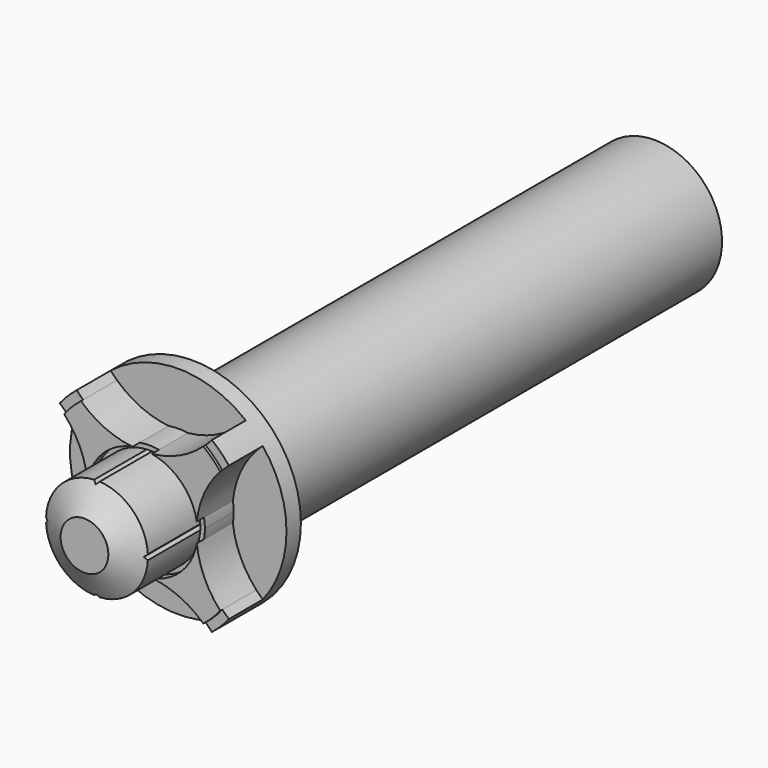
from build123d import *

# Parameters (mm, degrees)
F0_R      = 12
F1_DEPTH  = 7
F2_R      = 7.5
F3_DEPTH  = 64
F5_D      = 7
F5_DEPTH  = 16
F5_TIP    = 2.1030121666
F6_R      = 12
F6_R_2    = 11
F7_DEPTH  = 0.3
F8_R      = 5.65
F9_DEPTH  = 8
F10_SIZE2 = 1.7320508076
F10_SIZE  = 3
F11_R     = 6.15
F11_R_2   = 5.65
F12_DEPTH = 1
F14_DEPTH = 5
F16_DEPTH = 26


with BuildPart() as f1:
    # F0 (on Front) → F1 (new body)
    with BuildSketch(Plane.XZ):
        Circle(F0_R)
    extrude(amount=F1_DEPTH)

    # F2 (on face) → F3 (join)
    with BuildSketch(Plane(origin=(0, 0, 0), x_dir=(-1, 0, 0), z_dir=(0, 1, 0))):
        Circle(F2_R)
    extrude(amount=F3_DEPTH)

    # F5
    with Locations(Plane(origin=(0, 64, 0), x_dir=(-1, 0, 0), z_dir=(0, 1, 0))):
        with Locations((0, 0)):
            Hole(F5_D / 2, depth=F5_DEPTH)
            with Locations((0, 0, -(F5_DEPTH + F5_TIP / 2))):  # 118° drill point
                Cone(0, F5_D / 2, F5_TIP, mode=Mode.SUBTRACT)

    # F6 (on face) → F7 (cut)
    with BuildSketch(Plane.XZ.offset(7)):
        Circle(F6_R)
        Circle(F6_R_2, mode=Mode.SUBTRACT)
    extrude(amount=-F7_DEPTH, mode=Mode.SUBTRACT)

    # F8 (on face) → F9 (join)
    with BuildSketch(Plane.XZ.offset(7)):
        Circle(F8_R)
    extrude(amount=F9_DEPTH)

    # F10
    f10_edges = [f1.edges().sort_by_distance(p)[0] for p in [
        (-5.65, -15, 0),
    ]]
    f10_side = f1.faces().sort_by_distance((0, -15, 0))[0]
    chamfer(f10_edges, length=F10_SIZE, length2=F10_SIZE2, reference=f10_side)

    # F11 (on face) → F12 (cut)
    with BuildSketch(Plane.XZ.offset(7)):
        Circle(F11_R)
        Circle(F11_R_2, mode=Mode.SUBTRACT)
    extrude(amount=-F12_DEPTH, mode=Mode.SUBTRACT)

    # F13 (on face) → F14 (cut)
    with BuildSketch(Plane.XZ.offset(7)):
        with BuildLine():
            ThreePointArc((-9.375, 7.4906191333), (-12, 0), (-9.375, -7.4906191333))
            ThreePointArc((-9.375, -7.4906191333), (-9.0067811764, -7.148069004), (-8.65625, -6.7874395716))
            ThreePointArc((-8.65625, -6.7874395716), (-11, 0), (-8.65625, 6.7874395716))
            ThreePointArc((-8.65625, 6.7874395716), (-9.0067811764, 7.148069004), (-9.375, 7.4906191333))
        make_face()
        with BuildLine():
            ThreePointArc((-8.65625, 6.7874395716), (-11, 0), (-8.65625, -6.7874395716))
            ThreePointArc((-8.65625, -6.7874395716), (-6.8954530534, -4.1360881152), (-6.056953125, -1.0657480197))
            ThreePointArc((-6.056953125, -1.0657480197), (-6.15, 0), (-6.056953125, 1.0657480197))
            ThreePointArc((-6.056953125, 1.0657480197), (-6.8954530534, 4.1360881152), (-8.65625, 6.7874395716))
        make_face()
        with BuildLine():
            ThreePointArc((-1.0657480197, 6.056953125), (0, 6.15), (1.0657480197, 6.056953125))
            ThreePointArc((1.0657480197, 6.056953125), (4.1360881152, 6.8954530534), (6.7874395716, 8.65625))
            ThreePointArc((6.7874395716, 8.65625), (0, 11), (-6.7874395716, 8.65625))
            ThreePointArc((-6.7874395716, 8.65625), (-4.1360881152, 6.8954530534), (-1.0657480197, 6.056953125))
        make_face()
        with BuildLine():
            ThreePointArc((7.4906191333, 9.375), (0, 12), (-7.4906191333, 9.375))
            ThreePointArc((-7.4906191333, 9.375), (-7.148069004, 9.0067811764), (-6.7874395716, 8.65625))
            ThreePointArc((-6.7874395716, 8.65625), (0, 11), (6.7874395716, 8.65625))
            ThreePointArc((6.7874395716, 8.65625), (7.148069004, 9.0067811764), (7.4906191333, 9.375))
        make_face()
        with BuildLine():
            ThreePointArc((6.056953125, -1.0657480197), (6.8954530534, -4.1360881152), (8.65625, -6.7874395716))
            ThreePointArc((8.65625, -6.7874395716), (10.3975658209, -3.5903516541), (11, 0))
            ThreePointArc((11, 0), (10.3975658209, 3.5903516541), (8.65625, 6.7874395716))
            ThreePointArc((8.65625, 6.7874395716), (6.8954530534, 4.1360881152), (6.056953125, 1.0657480197))
            ThreePointArc((6.056953125, 1.0657480197), (6.1266941216, 0.5349010569), (6.15, 0))
            ThreePointArc((6.15, 0), (6.1266941216, -0.5349010569), (6.056953125, -1.0657480197))
        make_face()
        with BuildLine():
            ThreePointArc((8.65625, -6.7874395716), (9.0067811764, -7.148069004), (9.375, -7.4906191333))
            ThreePointArc((9.375, -7.4906191333), (11.3247516529, -3.9686269666), (12, 0))
            ThreePointArc((12, 0), (11.3247516529, 3.9686269666), (9.375, 7.4906191333))
            ThreePointArc((9.375, 7.4906191333), (9.0067811764, 7.148069004), (8.65625, 6.7874395716))
            ThreePointArc((8.65625, 6.7874395716), (10.3975658209, 3.5903516541), (11, 0))
            ThreePointArc((11, 0), (10.3975658209, -3.5903516541), (8.65625, -6.7874395716))
        make_face()
        with BuildLine():
            ThreePointArc((-6.7874395716, -8.65625), (0, -11), (6.7874395716, -8.65625))
            ThreePointArc((6.7874395716, -8.65625), (4.1360881152, -6.8954530534), (1.0657480197, -6.056953125))
            ThreePointArc((1.0657480197, -6.056953125), (0, -6.15), (-1.0657480197, -6.056953125))
            ThreePointArc((-1.0657480197, -6.056953125), (-4.1360881152, -6.8954530534), (-6.7874395716, -8.65625))
        make_face()
        with BuildLine():
            ThreePointArc((-7.4906191333, -9.375), (0, -12), (7.4906191333, -9.375))
            ThreePointArc((7.4906191333, -9.375), (7.148069004, -9.0067811764), (6.7874395716, -8.65625))
            ThreePointArc((6.7874395716, -8.65625), (0, -11), (-6.7874395716, -8.65625))
            ThreePointArc((-6.7874395716, -8.65625), (-7.148069004, -9.0067811764), (-7.4906191333, -9.375))
        make_face()
    extrude(amount=-F14_DEPTH, mode=Mode.SUBTRACT)

    # F15 (on face) → F16 (cut)
    with BuildSketch(Plane.XZ.offset(15)):
        with BuildLine():
            Line((0, 5.3420297766), (0.3, 5.6420297766))
            ThreePointArc((0.3, 5.6420297766), (0, 5.65), (-0.3, 5.6420297766))
            Line((-0.3, 5.6420297766), (0, 5.3420297766))
        make_face()
        with BuildLine():
            ThreePointArc((-5.6420297766, 0.3), (-5.65, 0), (-5.6420297766, -0.3))
            Line((-5.6420297766, -0.3), (-5.3420297766, 0))
            Line((-5.3420297766, 0), (-5.6420297766, 0.3))
        make_face()
        with BuildLine():
            ThreePointArc((-0.3, -5.6420297766), (0, -5.65), (0.3, -5.6420297766))
            Line((0.3, -5.6420297766), (0, -5.3420297766))
            Line((0, -5.3420297766), (-0.3, -5.6420297766))
        make_face()
        with BuildLine():
            ThreePointArc((5.6420297766, -0.3), (5.65, 0), (5.6420297766, 0.3))
            Line((5.6420297766, 0.3), (5.3420297766, 0))
            Line((5.3420297766, 0), (5.6420297766, -0.3))
        make_face()
    extrude(amount=-F16_DEPTH, mode=Mode.SUBTRACT)


solid = f1.part
